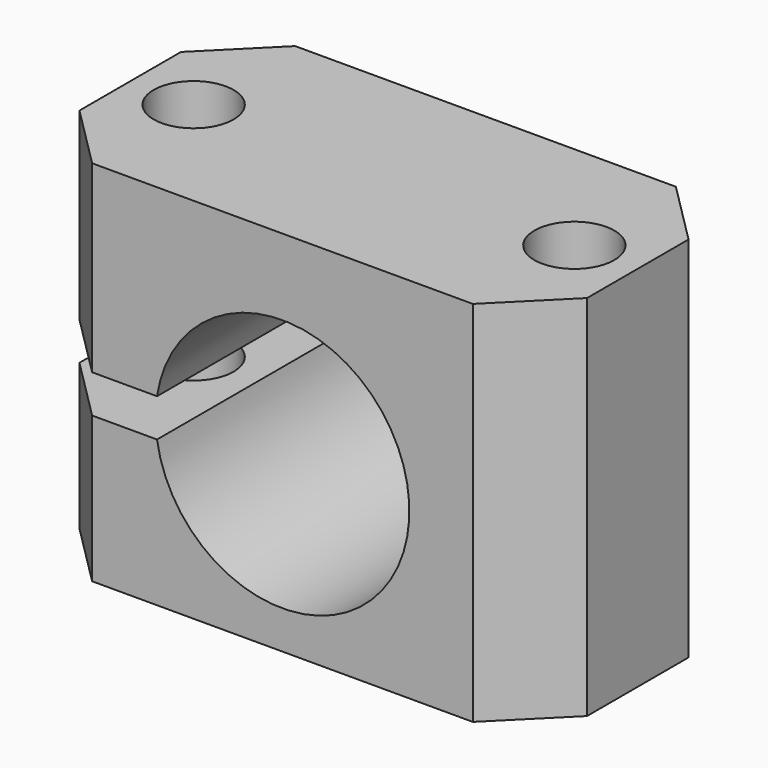
from build123d import *

# Parameters (mm, degrees)
F1_DEPTH = 29
F2_R     = 10
F3_DEPTH = 20.001
F4_W     = 9.6138500422
F4_H     = 3
F5_DEPTH = 20.001
F7_D     = 6.3


with BuildPart() as f1:
    # F0 (on Top) → F1 (new body)
    with BuildSketch(Plane.XY):
        Polygon((20, 5), (15, 10), (-15, 10), (-20, 5), (-20, -5), (-15, -10), (15, -10), (20, -5), align=None)
    extrude(amount=F1_DEPTH)

    # F2 (on face) → F3 (cut, through all)
    with BuildSketch(Plane.XZ.offset(10)):
        with Locations((0, 13)):
            Circle(F2_R)
    extrude(amount=-F3_DEPTH, mode=Mode.SUBTRACT)

    # F4 (on face) → F5 (cut, through all)
    with BuildSketch(Plane.XZ.offset(10)):
        with Locations((-19.8069250211, 13)):
            Rectangle(F4_W, F4_H)
        with BuildLine():
            Line((-9.8868599666, 11.5), (-4.6138500422, 11.5))
            Line((-4.6138500422, 11.5), (-4.6138500422, 14.5))
            Line((-4.6138500422, 14.5), (-9.8868599666, 14.5))
            ThreePointArc((-9.8868599666, 14.5), (-10, 13), (-9.8868599666, 11.5))
        make_face()
        with BuildLine():
            Line((-15, 11.5), (-9.8868599666, 11.5))
            ThreePointArc((-9.8868599666, 11.5), (-10, 13), (-9.8868599666, 14.5))
            Line((-9.8868599666, 14.5), (-15, 14.5))
            Line((-15, 14.5), (-15, 11.5))
        make_face()
    extrude(amount=-F5_DEPTH, mode=Mode.SUBTRACT)

    # F7 (through all)
    with Locations(Plane.XY.offset(29)):
        with Locations((-15, 0), (15, 0)):
            Hole(F7_D / 2)


solid = f1.part
